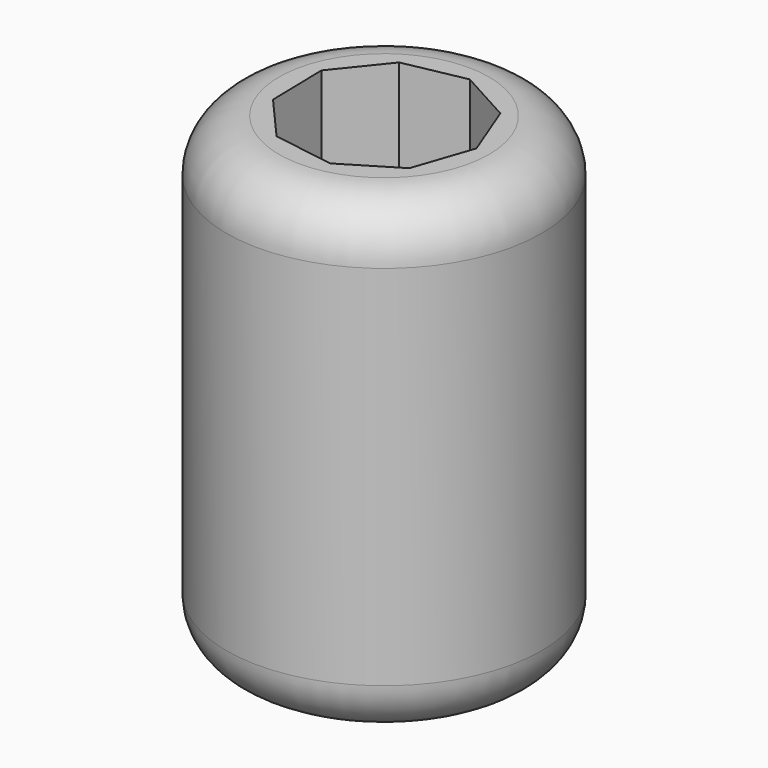
from build123d import *

# Parameters (mm, degrees)
F0_R     = 15
F1_DEPTH = 45
F2_R     = 5
F3_SIZE  = 1


with BuildPart() as f1:
    # F0 (on Top) → F1 (new body)
    with BuildSketch(Plane.XY):
        Circle(F0_R)
        Polygon((-4.488197, 7.405002), (1.321685, 8.557517), (6.513136, 5.705876), (8.657018, 0.184391), (6.750185, -5.423372), (1.684866, -8.493479), (-4.168821, -7.589393), (-8.07187, -3.134146), (-8.198001, 2.787603), align=None, mode=Mode.SUBTRACT)
    extrude(amount=F1_DEPTH)

    # F2
    f2_edges = [f1.edges().sort_by_distance(p)[0] for p in [
        (-15, 0, 45),
        (-15, 0, 0),
    ]]
    fillet(f2_edges, radius=F2_R)

    # F3
    f3_edges = [f1.edges().sort_by_distance(p)[0] for p in [
        (4.217525, -6.958425, 0),
        (-1.241978, -8.041436, 0),
        (-6.120346, -5.361769, 0),
        (-8.134936, -0.173271, 0),
        (-6.343099, 5.096302, 0),
        (-1.583256, 7.98126, 0),
        (3.917411, 7.131697, 0),
        (7.585077, 2.945134, 0),
        (7.703601, -2.61949, 0),
    ]]
    chamfer(f3_edges, length=F3_SIZE)


solid = f1.part
